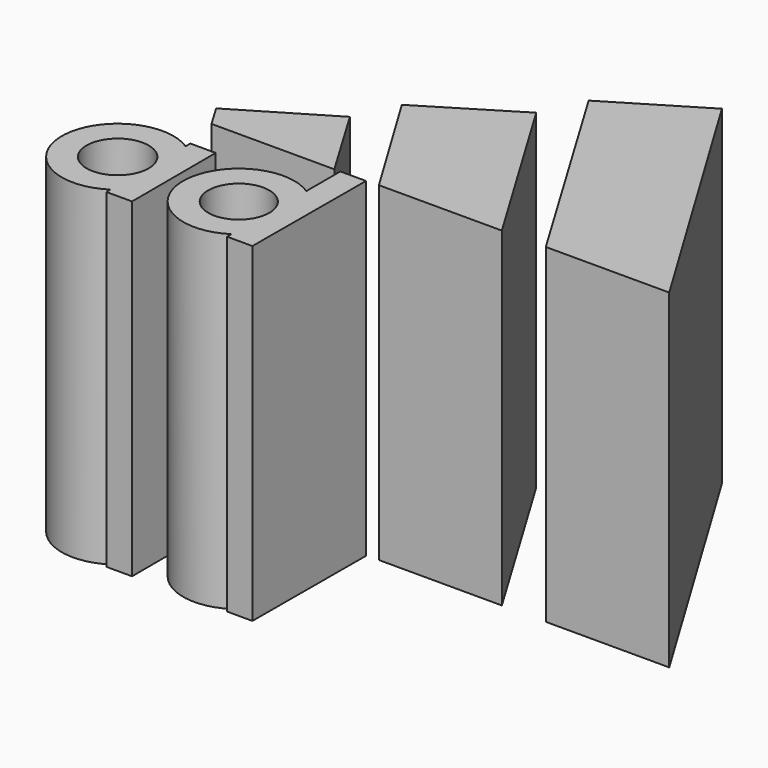
from build123d import *

# Parameters (mm, degrees)
F1_DEPTH = 50.8
F3_DEPTH = 50.8
F5_DEPTH = 50.8
F6_R     = 4.779489
F7_DEPTH = 50.8
F8_R     = 4.699821
F9_DEPTH = 50.8


with BuildPart() as f1:
    # F0 (on Top) → F1 (new body)
    with BuildSketch(Plane.XY):
        Polygon((-24.898751, 7.532405), (-38.831126, -0.78943), (-36.743611, -4.29304), (-17.83539, -4.29304), align=None)
    extrude(amount=F1_DEPTH)


with BuildPart() as f3:
    # F2 (on Top) → F3 (new body)
    with BuildSketch(Plane.XY):
        Polygon((-8.083949, 22.367807), (-21.979075, 13.878456), (-11.063538, -4.177323), (7.858154, -4.177323), align=None)
    extrude(amount=F3_DEPTH)


with BuildPart() as f5:
    # F4 (on Top) → F5 (new body)
    with BuildSketch(Plane.XY):
        Polygon((8.697755, 37.11848), (-5.134949, 28.767396), (14.64319, -4.203232), (33.644509, -4.203232), align=None)
    extrude(amount=F5_DEPTH)


with BuildPart() as f7:
    # F6 (on Top) → F7 (new body)
    with BuildSketch(Plane.XY):
        with BuildLine():
            Line((-35.53104, -9.872872), (-35.53104, -10.782821))
            ThreePointArc((-35.53104, -10.782821), (-48.818442, -17.997706), (-35.54067, -25.230298))
            Line((-35.54067, -25.230298), (-35.53104, -26.024793))
            Line((-35.53104, -26.024793), (-31.587737, -26.015215))
            Line((-31.587737, -26.015215), (-31.626943, -9.872872))
            Line((-31.626943, -9.872872), (-35.53104, -9.872872))
        make_face()
        with Locations((-40.185747, -18.046049)):
            Circle(F6_R, mode=Mode.SUBTRACT)
    extrude(amount=F7_DEPTH)


with BuildPart() as f9:
    # F8 (on Top) → F9 (new body)
    with BuildSketch(Plane.XY):
        with BuildLine():
            Line((-16.915079, -4.285301), (-16.915079, -10.821003))
            ThreePointArc((-16.915079, -10.821003), (-30.129358, -17.979524), (-16.955052, -25.211345))
            Line((-16.955052, -25.211345), (-16.915079, -26.043249))
            Line((-16.915079, -26.043249), (-13.039545, -26.056853))
            Line((-13.039545, -26.056853), (-12.963125, -4.285301))
            Line((-12.963125, -4.285301), (-16.915079, -4.285301))
        make_face()
        with Locations((-21.545883, -18.035851)):
            Circle(F8_R, mode=Mode.SUBTRACT)
    extrude(amount=F9_DEPTH)


solid = Compound([f1.part, f3.part, f5.part, f7.part, f9.part])
